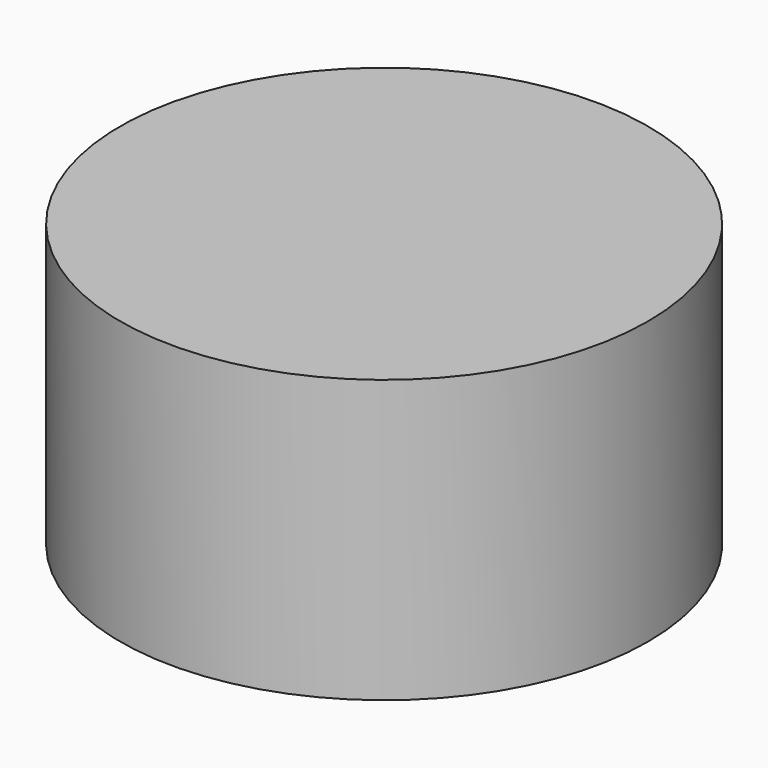
from build123d import *

# Parameters (mm, degrees)
PRISM011_DEPTH    = 1.1
CYLINDER058_R     = 2.34
CYLINDER058_DEPTH = 2.5


with BuildPart() as prism011:
    # Prism011 → Prism011 (new body)
    with BuildSketch(Plane.XY.offset(-23)):
        Polygon((1, 0), (0.5, 0.866025), (-0.5, 0.866025), (-1, 0), (-0.5, -0.866025), (0.5, -0.866025), align=None)
    extrude(amount=PRISM011_DEPTH)


with BuildPart() as cut046:
    # Cylinder058 → Cylinder058 (new body)
    with BuildSketch(Plane.XY.offset(-22.5)):
        Circle(CYLINDER058_R)
    extrude(amount=CYLINDER058_DEPTH)

    # Cut046: cut Prism011
    add(prism011.part, mode=Mode.SUBTRACT)


solid = cut046.part
